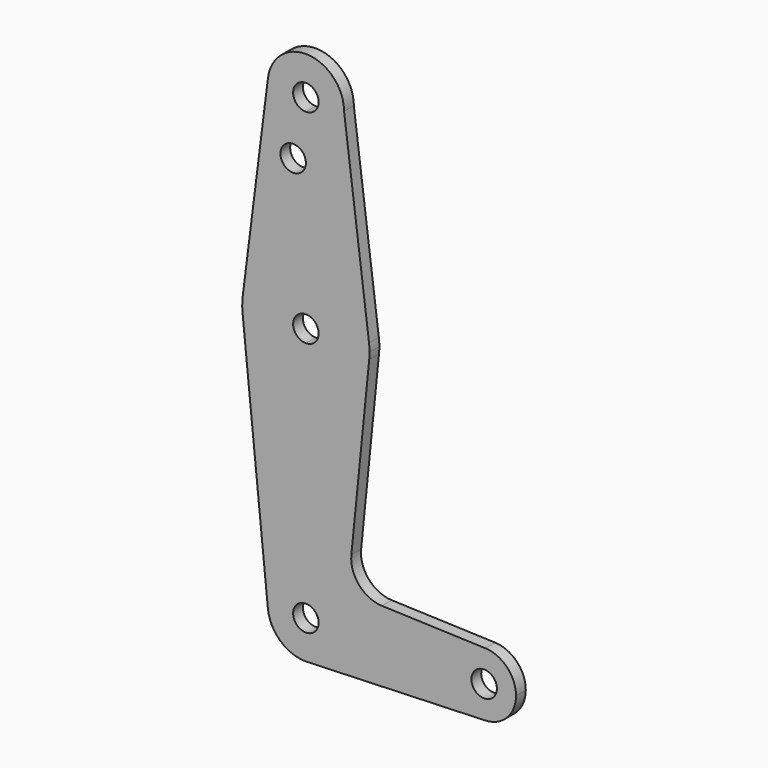
from build123d import *

# Parameters (mm, degrees)
F0_R     = 3.175
F1_DEPTH = 3.048


with BuildPart() as f1:
    # F0 (on Front) → F1 (new body)
    with BuildSketch(Plane.XZ):
        with BuildLine():
            ThreePointArc((9.525, 114.3), (0.596483242, 123.8063048942), (-9.4502929642, 115.490625))
            ThreePointArc((-9.4502929642, 115.490625), (-7.14375, 107.9998046905), (0, 104.775))
            ThreePointArc((0, 104.775), (6.7351920908, 107.5648079092), (9.525, 114.3))
        make_face()
        with BuildLine():
            ThreePointArc((3.175, 114.3), (2.2450640303, 112.0549359697), (0, 111.125))
            ThreePointArc((0, 111.125), (-2.2450640303, 116.5450640303), (3.175, 114.3))
        make_face(mode=Mode.SUBTRACT)
        with BuildLine():
            Line((-9.4502929642, 115.490625), (-15.7504882737, 65.484375))
            ThreePointArc((-15.7504882737, 65.484375), (-10.5003255158, 75.40625), (0, 79.375))
            Line((0, 79.375), (0, 99.886942851))
            Line((0, 99.886942851), (0, 104.775))
            ThreePointArc((0, 104.775), (-7.14375, 107.9998046905), (-9.4502929642, 115.490625))
        make_face()
        with Locations((-3.175, 99.886942851)):
            Circle(F0_R, mode=Mode.SUBTRACT)
        with BuildLine():
            Line((0, 99.886942851), (0, 79.375))
            ThreePointArc((0, 79.375), (10.4912828548, 75.4142187767), (15.7474569047, 65.5082893304))
            Line((15.7474569047, 65.5082893304), (9.525, 114.3))
            ThreePointArc((9.525, 114.3), (6.7351920908, 107.5648079092), (0, 104.775))
            Line((0, 104.775), (0, 99.886942851))
        make_face()
        with BuildLine():
            ThreePointArc((-15.7504882737, 65.484375), (-15.8737438155, 63.6997054867), (-15.7954255641, 61.9125))
            ThreePointArc((-15.7954255641, 61.9125), (-10.6492737428, 51.7267849017), (0, 47.625))
            Line((0, 47.625), (0, 60.325))
            ThreePointArc((0, 60.325), (-3.175, 63.5), (0, 66.675))
            Line((0, 66.675), (0, 79.375))
            ThreePointArc((0, 79.375), (-10.5003255158, 75.40625), (-15.7504882737, 65.484375))
        make_face()
        with BuildLine():
            Line((0, 60.325), (0, 47.625))
            ThreePointArc((0, 47.625), (10.6492737428, 51.7267849017), (15.7954255641, 61.9125))
            ThreePointArc((15.7954255641, 61.9125), (15.8550939106, 62.7052534459), (15.875, 63.5))
            ThreePointArc((15.875, 63.5), (15.8430821396, 64.5061676396), (15.7474569047, 65.5082893304))
            ThreePointArc((15.7474569047, 65.5082893304), (10.4912828548, 75.4142187767), (0, 79.375))
            Line((0, 79.375), (0, 66.675))
            ThreePointArc((0, 66.675), (2.2450640303, 65.7450640303), (3.175, 63.5))
            ThreePointArc((3.175, 63.5), (2.2450640303, 61.2549359697), (0, 60.325))
        make_face()
        with BuildLine():
            Line((-15.7954255641, 61.9125), (-9.4772553384, -0.9525))
            ThreePointArc((-9.4772553384, -0.9525), (-7.063929059, 6.3895642457), (0, 9.525))
            Line((0, 9.525), (0, 47.625))
            ThreePointArc((0, 47.625), (-10.6492737428, 51.7267849017), (-15.7954255641, 61.9125))
        make_face()
        with BuildLine():
            Line((0, 47.625), (0, 9.525))
            ThreePointArc((0, 9.525), (6.7351920908, 6.7351920908), (9.525, 0))
            Line((9.525, 0), (36.5125, 0))
            ThreePointArc((36.5125, 0), (38.9384772185, 5.7120069047), (44.7334821429, 7.9324362036))
            Line((44.7334821429, 7.9324362036), (18.9676000005, 8.8532337108))
            ThreePointArc((18.9676000005, 8.8532337108), (13.2611998974, 11.5713591498), (11.3411865923, 17.5933818124))
            Line((11.3411865923, 17.5933818124), (15.7954255641, 61.9125))
            ThreePointArc((15.7954255641, 61.9125), (10.6492737428, 51.7267849017), (0, 47.625))
        make_face()
        with BuildLine():
            ThreePointArc((0, 9.525), (-7.063929059, 6.3895642457), (-9.4772553384, -0.9525))
            ThreePointArc((-9.4772553384, -0.9525), (-6.3895642457, -7.063929059), (0, -9.525))
            Line((0, -9.525), (0.6773435479, -9.500885786))
            ThreePointArc((0.6773435479, -9.500885786), (6.9705567315, -6.4912990883), (9.525, 0))
            Line((9.525, 0), (3.175, 0))
            ThreePointArc((3.175, 0), (-2.2450640303, -2.2450640303), (0, 3.175))
            Line((0, 3.175), (0, 9.525))
        make_face()
        with BuildLine():
            ThreePointArc((9.525, 0), (6.7351920908, 6.7351920908), (0, 9.525))
            Line((0, 9.525), (0, 3.175))
            ThreePointArc((0, 3.175), (2.2450640303, 2.2450640303), (3.175, 0))
            Line((3.175, 0), (9.525, 0))
        make_face()
        with BuildLine():
            ThreePointArc((9.525, 0), (6.9705567315, -6.4912990883), (0.6773435479, -9.500885786))
            Line((0.6773435479, -9.500885786), (44.7324052746, -7.9324746146))
            ThreePointArc((44.7324052746, -7.9324746146), (38.9380895153, -5.7116327839), (36.5125, 0))
            Line((36.5125, 0), (9.525, 0))
        make_face()
        with BuildLine():
            ThreePointArc((36.5125, 0), (38.9380895153, -5.7116327839), (44.7324052746, -7.9324746146))
            ThreePointArc((44.7324052746, -7.9324746146), (50.1616327839, -5.5119104847), (52.3875, 0))
            ThreePointArc((52.3875, 0), (50.1620069047, 5.5115227815), (44.7334821429, 7.9324362036))
            ThreePointArc((44.7334821429, 7.9324362036), (38.9384772185, 5.7120069047), (36.5125, 0))
        make_face()
        with BuildLine():
            ThreePointArc((47.625, 0), (44.45, -3.175), (41.275, 0))
            ThreePointArc((41.275, 0), (44.45, 3.175), (47.625, 0))
        make_face(mode=Mode.SUBTRACT)
    extrude(amount=F1_DEPTH)


solid = f1.part
